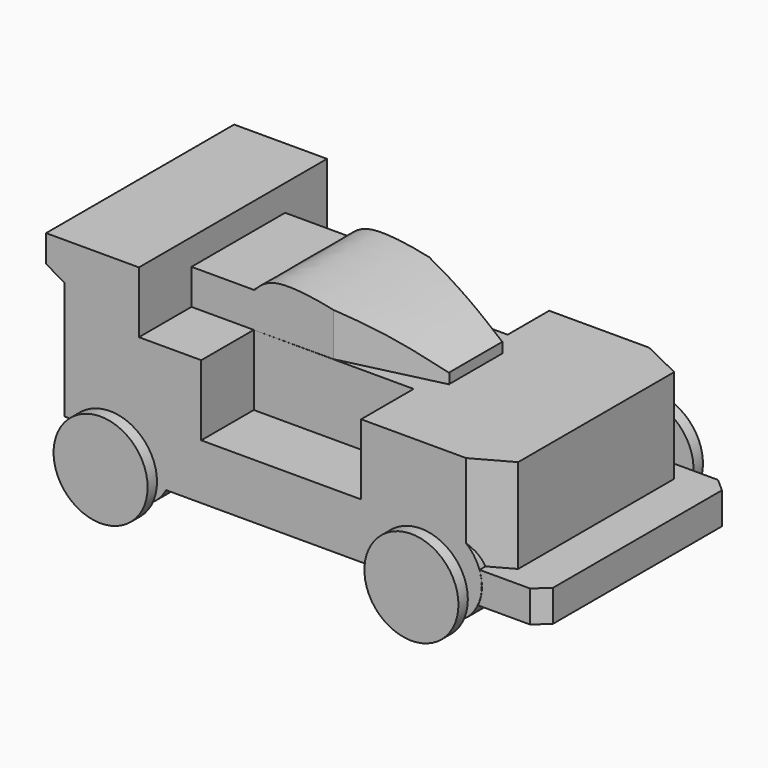
from build123d import *

# Parameters (mm, degrees)
F1_DEPTH      = 50.8
F2_R          = 9.144
F3_DEPTH      = 54.864
F4_R          = 4.064
F5_DEPTH      = 56.134
F5_DEPTH_BACK = 5.334
F7_START      = 5.08
F6_R          = 10.16
F7_DEPTH      = 2.54
F9_START      = 5.08
F8_R          = 10.16
F9_DEPTH      = 2.54
F10_W         = 34.544
F10_H         = 25.4
F11_DEPTH     = 15.24
F12_W         = 13.462
F12_H         = 25.2863662317
F13_DEPTH     = 7.62
F15_DEPTH     = 25.273
F17_DEPTH     = 9.3726
F19_DEPTH     = 20.32
F20_R         = 9.144
F20_R_2       = 4.699
F21_DEPTH     = 50.8
F22_W         = 6.9764815271
F22_H         = 14.4462492317
F23_DEPTH     = 11.176
F25_DEPTH     = 25.4


with BuildPart() as f1:
    # F0 (on Front) → F1 (new body)
    with BuildSketch(Plane.XZ):
        with BuildLine():
            ThreePointArc((-39.3160984872, -27.7575049432), (-33.9790579937, -38.7625558195), (-22.4726634651, -34.6155049432))
            ThreePointArc((-22.4726634651, -34.6155049432), (-21.6624499567, -32.5217293492), (-21.3868406955, -30.2936400999))
            ThreePointArc((-21.3868406955, -30.2936400999), (-29.2501497194, -21.2397698433), (-39.3160984872, -27.7575049432))
        make_face()
        with BuildLine():
            ThreePointArc((-21.3868406955, -30.2936400999), (-21.6624499567, -32.5217293492), (-22.4726634651, -34.6155049432))
            Line((-22.4726634651, -34.6155049432), (28.3273365349, -34.6155049432))
            ThreePointArc((28.3273365349, -34.6155049432), (34.6764494687, -21.8598808978), (45.7775638516, -30.7919825146))
            ThreePointArc((45.7775638516, -30.7919825146), (45.5656654684, -32.7490968975), (44.9397911684, -34.6155049432))
            Line((44.9397911684, -34.6155049432), (59.0346912427, -34.6155049432))
            Line((59.0346912427, -34.6155049432), (59.0346912427, -27.7575049432))
            Line((59.0346912427, -27.7575049432), (50.1446912427, -27.7575049432))
            Line((50.1446912427, -27.7575049432), (50.1446912427, -7.4375049432))
            Line((50.1446912427, -7.4375049432), (19.6646912427, -7.4375049432))
            Line((19.6646912427, -7.4375049432), (19.6646912427, -22.6775049432))
            Line((19.6646912427, -22.6775049432), (-14.8793087573, -22.6775049432))
            Line((-14.8793087573, -22.6775049432), (-14.8793087573, -7.4375049432))
            Line((-14.8793087573, -7.4375049432), (-28.3413087573, -7.4375049432))
            Line((-28.3413087573, -7.4375049432), (-28.3413087573, 5.842))
            Line((-28.3413087573, 5.842), (-48.4073087573, 5.842))
            Line((-48.4073087573, 5.842), (-48.4073087573, 0))
            Line((-48.4073087573, 0), (-44.4313660264, -2.3575049432))
            Line((-44.4313660264, -2.3575049432), (-44.4313660264, -27.7575049432))
            Line((-44.4313660264, -27.7575049432), (-39.3160984872, -27.7575049432))
            ThreePointArc((-39.3160984872, -27.7575049432), (-29.2501497194, -21.2397698433), (-21.3868406955, -30.2936400999))
        make_face()
        with BuildLine():
            ThreePointArc((45.7775638516, -30.7919825146), (34.6764494687, -21.8598808978), (28.3273365349, -34.6155049432))
            ThreePointArc((28.3273365349, -34.6155049432), (36.6335638516, -39.9359825146), (44.9397911684, -34.6155049432))
            ThreePointArc((44.9397911684, -34.6155049432), (45.5656654684, -32.7490968975), (45.7775638516, -30.7919825146))
        make_face()
    extrude(amount=F1_DEPTH)

    # F2 (on face) → F3 (cut)
    with BuildSketch(Plane.XZ.offset(50.8)):
        with Locations((-30.5308406955, -30.2936400999)):
            Circle(F2_R)
        with Locations((36.6335638516, -30.7919825146)):
            Circle(F2_R)
    extrude(amount=-F3_DEPTH, mode=Mode.SUBTRACT)

    # F10 (on face) → F11 (join)
    with BuildSketch(Plane.XY.offset(-22.6775049432)):
        with Locations((2.3926912427, -23.9094186902)):
            Rectangle(F10_W, F10_H)
    extrude(amount=F11_DEPTH)

    # F12 (on face) → F13 (join)
    with BuildSketch(Plane.XY.offset(-7.4375049432)):
        with Locations((-21.6103087573, -23.9662355743)):
            Rectangle(F12_W, F12_H)
    extrude(amount=F13_DEPTH)

    # F14 (on face) → F15 (join)
    with BuildSketch(Plane.XZ.offset(36.6094186902)):
        with BuildLine():
            add(Edge.make_bspline(
                [(-14.9534931406, 0), (-13.7084147885, 1.280785357), (-10.1476321192, 4.9436860046), (10.580938155, 0.3784500707), (20.8913849344, -4.0742789406), (26.1342285398, -6.3342501821), (28.4668169916, -7.3397317901)],
                knots=[0, 0, 0, 0, 0.183241401, 0.5240495941, 0.7882453676, 1, 1, 1, 1], degree=3))
            Line((-14.9534931406, 0), (-14.8793087573, -7.4375049432))
            Line((-14.8793087573, -7.4375049432), (28.4668169916, -7.3397317901))
        make_face()
    extrude(amount=-F15_DEPTH)

    # F16 (on face) → F17 (cut)
    with BuildSketch(Plane.XY.offset(-7.4375049432)):
        Polygon((2.3926912427, -11.2094186902), (28.6921481749, -18.8049337278), (28.7324799613, -11.1850404643), align=None)
        Polygon((28.6921481749, -38.0666863767), (28.7324799613, -30.4467931132), (2.3926912427, -36.6094186902), align=None)
    extrude(amount=F17_DEPTH, mode=Mode.SUBTRACT)

    # F18 (on face) → F19 (cut)
    with BuildSketch(Plane.XY.offset(-7.4375049432)):
        Polygon((50.1446912427, -4.318), (50.1446912427, 0), (41.2546912427, 0), align=None)
        Polygon((42.373785504, -50.8), (50.1446912427, -50.8), (50.1446912427, -46.482), align=None)
    extrude(amount=-F19_DEPTH, mode=Mode.SUBTRACT)

    # F20 (on face) → F21 (join)
    with BuildSketch(Plane(origin=(0, 0, 0), x_dir=(-1, 0, 0), z_dir=(0, 1, 0))):
        with Locations((30.5308406955, -30.2936400999)):
            Circle(F20_R)
        with Locations((30.5308406955, -30.2936400999)):
            Circle(F20_R_2, mode=Mode.SUBTRACT)
        with Locations((-36.5999266505, -30.7384990156)):
            Circle(F20_R)
        with Locations((-36.5999266505, -30.7384990156)):
            Circle(F20_R_2, mode=Mode.SUBTRACT)
    extrude(amount=-F21_DEPTH)

    # F22 (on face) → F23 (cut)
    with BuildSketch(Plane.XY.offset(-7.4375049432)):
        with Locations((26.8421266228, -24.4486602023)):
            Rectangle(F22_W, F22_H)
    extrude(amount=F23_DEPTH, mode=Mode.SUBTRACT)

    # F24 (on face) → F25 (cut)
    with BuildSketch(Plane.XY.offset(-27.7575049432)):
        Polygon((59.0346912427, 0), (56.1390912427, 0), (59.0346912427, -2.5536791654), align=None)
        Polygon((59.0346912427, -48.2346), (56.1494703707, -50.8), (59.0346912427, -50.8), align=None)
    extrude(amount=-F25_DEPTH, mode=Mode.SUBTRACT)


with BuildPart() as f5:
    # F4 (on face) → F5 (new body, two sides)
    with BuildSketch(Plane.XZ.offset(50.8)) as f5_sk:
        with Locations((36.6335638516, -30.7919825146)):
            Circle(F4_R)
    extrude(amount=-F5_DEPTH)
    extrude(f5_sk.sketch, amount=F5_DEPTH_BACK)


with BuildPart() as f5b:
    # F4 (on face) → F5, piece 2 (new body, two sides)
    with BuildSketch(Plane.XZ.offset(50.8)) as f5_2_sk:
        with Locations((-30.5308406955, -30.2936400999)):
            Circle(F4_R)
    extrude(amount=-F5_DEPTH)
    extrude(f5_2_sk.sketch, amount=F5_DEPTH_BACK)


with BuildPart() as f7:
    # F6 (on face) → F7 (new body)
    with BuildSketch(Plane.XZ.offset(50.8).offset(F7_START)):
        with Locations((-30.5308406955, -30.2936400999)):
            Circle(F6_R)
    extrude(amount=F7_DEPTH)


with BuildPart() as f7b:
    # F6 (on face) → F7, piece 2 (new body)
    with BuildSketch(Plane.XZ.offset(50.8).offset(F7_START)):
        with Locations((36.6335638516, -30.7919825146)):
            Circle(F6_R)
    extrude(amount=F7_DEPTH)


with BuildPart() as f9:
    # F8 (on face) → F9 (new body)
    with BuildSketch(Plane(origin=(0, 0, 0), x_dir=(-1, 0, 0), z_dir=(0, 1, 0)).offset(F9_START)):
        with Locations((-36.6335638516, -30.7919825146)):
            Circle(F8_R)
    extrude(amount=F9_DEPTH)


with BuildPart() as f9b:
    # F8 (on face) → F9, piece 2 (new body)
    with BuildSketch(Plane(origin=(0, 0, 0), x_dir=(-1, 0, 0), z_dir=(0, 1, 0)).offset(F9_START)):
        with Locations((30.5308406955, -30.2936400999)):
            Circle(F8_R)
    extrude(amount=F9_DEPTH)


solid = Compound([f1.part, f5.part, f5b.part, f7.part, f7b.part, f9.part, f9b.part])
